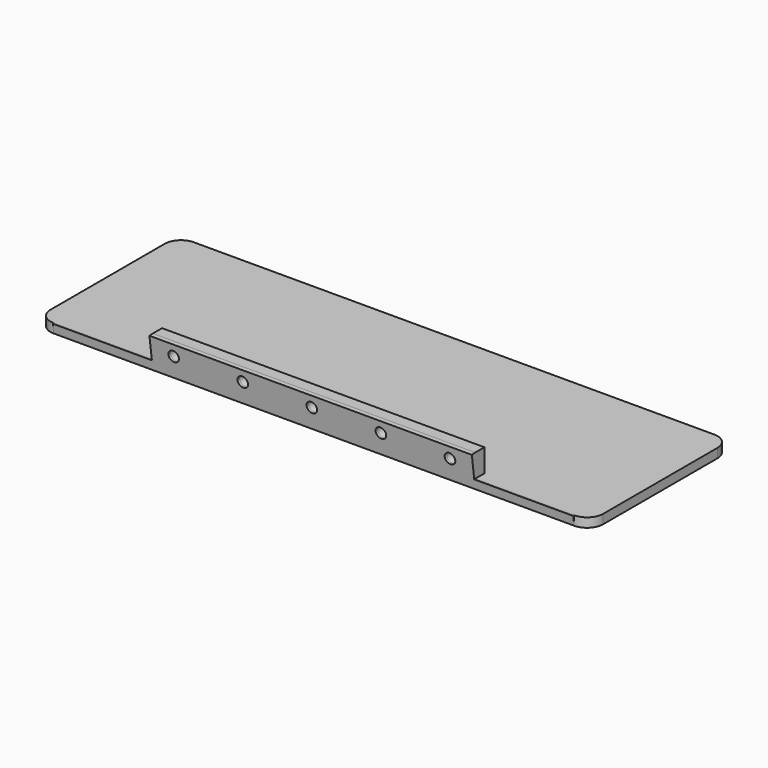
from build123d import *

# Parameters (mm, degrees)
F0_W      = 120
F0_H      = 38
F1_DEPTH  = 2
F2_W      = 70
F2_H      = 2.5
F3_DEPTH  = 5
F5_D      = 2.3
F5_DEPTH  = 5
F6_R      = 3.5
F3_FACE_R = 1.15
F7_ANGLE  = -7.5


with BuildPart() as f1:
    # F0 (on Top) → F1 (new body)
    with BuildSketch(Plane.XY):
        Rectangle(F0_W, F0_H)
    extrude(amount=F1_DEPTH)

    # F2 (on face) → F3 (join)
    with BuildSketch(Plane.XY.offset(2)):
        with Locations((0, -17.75)):
            Rectangle(F2_W, F2_H)
    extrude(amount=F3_DEPTH)

    # F5
    with Locations(Plane.XZ.offset(19)):
        with Locations((-30, 4.5), (-15, 4.5), (0, 4.5), (15, 4.5), (30, 4.5)):
            Hole(F5_D / 2, depth=F5_DEPTH)

    # F6
    f6_edges = [f1.edges().sort_by_distance(p)[0] for p in [
        (-60, -19, 1),
        (-60, 19, 1),
        (60, 19, 1),
        (60, -19, 1),
    ]]
    fillet(f6_edges, radius=F6_R)

    # F3_face (on face) → F7 (revolve)
    with BuildSketch(Plane(origin=(0, -19, 3.076271), x_dir=(1, 0, 0), z_dir=(0, -1, 0))):
        Polygon((-56.5, -3.076271), (56.5, -3.076271), (56.5, -1.076271), (35, -1.076271), (35, 3.923729), (-35, 3.923729), (-35, -1.076271), (-56.5, -1.076271), align=None)
        with Locations((-30, 1.423729)):
            Circle(F3_FACE_R, mode=Mode.SUBTRACT)
        with Locations((-15, 1.423729)):
            Circle(F3_FACE_R, mode=Mode.SUBTRACT)
        with Locations((0, 1.423729)):
            Circle(F3_FACE_R, mode=Mode.SUBTRACT)
        with Locations((15, 1.423729)):
            Circle(F3_FACE_R, mode=Mode.SUBTRACT)
        with Locations((30, 1.423729)):
            Circle(F3_FACE_R, mode=Mode.SUBTRACT)
    revolve(axis=Axis((0, -19, 0), (-1, 0, 0)), revolution_arc=F7_ANGLE)


solid = f1.part
